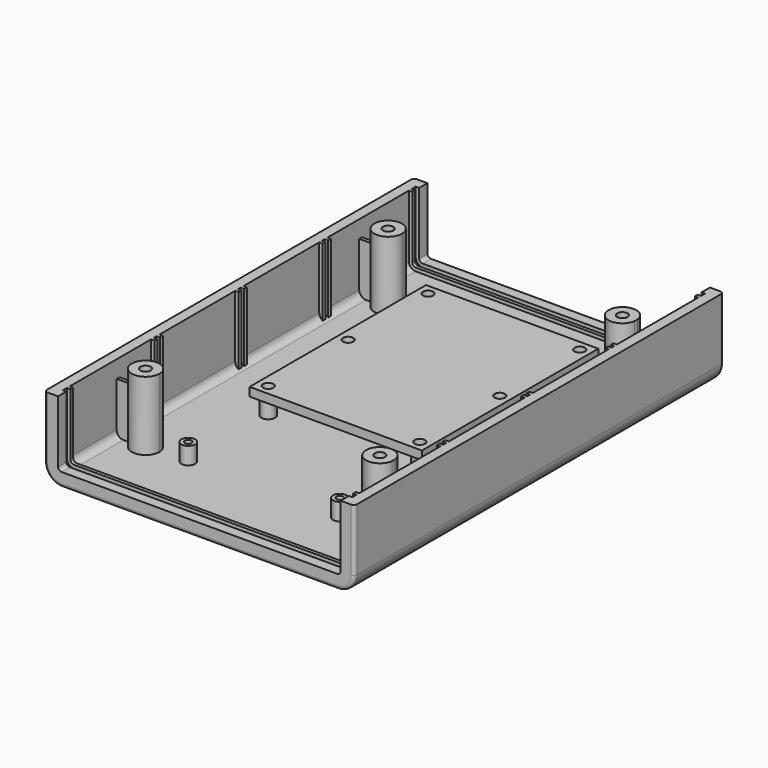
from build123d import *

# Parameters (mm, degrees)
F4_DEPTH  = 40
F5_R      = 1.5
F6_DEPTH  = 20
F5_W      = 2
F5_H      = 1
F7_DEPTH  = 15
F5_R_2    = 2
F5_R_3    = 1
F8_DEPTH  = 5
F11_W     = 50
F11_H     = 64
F11_R     = 1.5
F12_DEPTH = 2.5


with BuildPart() as f2:
    # F2: sweep along a path in F1
    with BuildLine(Plane.XZ) as f2_path:
        Line((-45, 0), (-45, -18))
        ThreePointArc((-45, -18), (-43.5355339059, -21.5355339059), (-40, -23))
        Line((-40, -23), (0, -23))
    # F0 (on Top) → F2 (sweep)
    with BuildSketch(Plane.XY):
        with BuildLine():
            Line((-41, 67), (-44, 67))
            ThreePointArc((-44, 67), (-44.7071067812, 66.7071067812), (-45, 66))
            Line((-45, 66), (-45, 0))
            Line((-45, 0), (-42, 0))
            Line((-42, 0), (-42, 0.5))
            Line((-42, 0.5), (-41, 0.5))
            Line((-41, 0.5), (-41, 1.5))
            Line((-41, 1.5), (-42, 1.5))
            Line((-42, 1.5), (-42, 29))
            Line((-42, 29), (-41, 29))
            Line((-41, 29), (-41, 30))
            Line((-41, 30), (-42, 30))
            Line((-42, 30), (-42, 31))
            Line((-42, 31), (-41, 31))
            Line((-41, 31), (-41, 32))
            Line((-41, 32), (-42, 32))
            Line((-42, 32), (-42, 61.5))
            Line((-42, 61.5), (-41, 61.5))
            Line((-41, 61.5), (-41, 62.5))
            Line((-41, 62.5), (-42, 62.5))
            Line((-42, 62.5), (-42, 64))
            Line((-42, 64), (-41, 64))
            Line((-41, 64), (-41, 67))
        make_face()
    sweep(path=f2_path.line)

    # F3 (on Front) → F4 (cut)
    with BuildSketch(Plane.XZ):
        with BuildLine():
            Line((0, -20), (0, -13.3407218382))
            Line((0, -13.3407218382), (-41, -13.3407218382))
            Line((-41, -13.3407218382), (-41, -19.7320508076))
            ThreePointArc((-41, -19.7320508076), (-40.5176380902, -19.9318516526), (-40, -20))
            Line((-40, -20), (0, -20))
        make_face()
    extrude(amount=-F4_DEPTH, mode=Mode.SUBTRACT)

    # F5 (on face) → F6 (join)
    with BuildSketch(Plane.XY.offset(-20)):
        with BuildLine():
            ThreePointArc((-37.9686269666, 43.5), (-33.7495083498, 40.0078509631), (-30, 44))
            ThreePointArc((-30, 44), (-33.7495083498, 47.9921490369), (-37.9686269666, 44.5))
            ThreePointArc((-37.9686269666, 44.5), (-38, 44), (-37.9686269666, 43.5))
        make_face()
        with Locations((-34, 44)):
            Circle(F5_R, mode=Mode.SUBTRACT)
    extrude(amount=F6_DEPTH)

    # F5 (on face) → F7 (join)
    with BuildSketch(Plane.XY.offset(-20)):
        with Locations((-41, 44)):
            Rectangle(F5_W, F5_H)
        with BuildLine():
            ThreePointArc((-37.9686269666, 43.5), (-38, 44), (-37.9686269666, 44.5))
            Line((-37.9686269666, 44.5), (-40, 44.5))
            Line((-40, 44.5), (-40, 43.5))
            Line((-40, 43.5), (-37.9686269666, 43.5))
        make_face()
    extrude(amount=F7_DEPTH)

    # F5 (on face) → F8 (join)
    with BuildSketch(Plane.XY.offset(-20)):
        with Locations((-22, 43.5)):
            Circle(F5_R_2)
        with Locations((-22, 43.5)):
            Circle(F5_R_3, mode=Mode.SUBTRACT)
        with Locations((-22, 14.5)):
            Circle(F5_R_2)
        with Locations((-22, 14.5)):
            Circle(F5_R_3, mode=Mode.SUBTRACT)
    extrude(amount=F8_DEPTH)

    # F9: F2 across face


with BuildPart() as f2_1:
    add(f2.part)
    add(f2.part.mirror(Plane(origin=(-28.5980278594, 0, -17.8582627773), x_dir=(1, 0, 0), z_dir=(0, -1, 0))))

    # F10: F2 across face


with BuildPart() as f2_2:
    add(f2_1.part)
    add(f2_1.part.mirror(Plane(origin=(0, 0, -21.459596887), x_dir=(0, 1, 0), z_dir=(1, 0, 0))))


with BuildPart() as f12:
    # F11 (on face) → F12 (new body)
    with BuildSketch(Plane.XY.offset(-15)):
        with Locations((0, 14.5)):
            Rectangle(F11_W, F11_H)
        with Locations((-22, -14.5)):
            Circle(F11_R, mode=Mode.SUBTRACT)
        with Locations((22, -14.5)):
            Circle(F11_R, mode=Mode.SUBTRACT)
        with Locations((-22, 14.5)):
            Circle(F11_R, mode=Mode.SUBTRACT)
        with Locations((-22, 43.5)):
            Circle(F11_R, mode=Mode.SUBTRACT)
        with Locations((22, 14.5)):
            Circle(F11_R, mode=Mode.SUBTRACT)
        with Locations((22, 43.5)):
            Circle(F11_R, mode=Mode.SUBTRACT)
    extrude(amount=F12_DEPTH)


solid = Compound([f2_2.part, f12.part])
